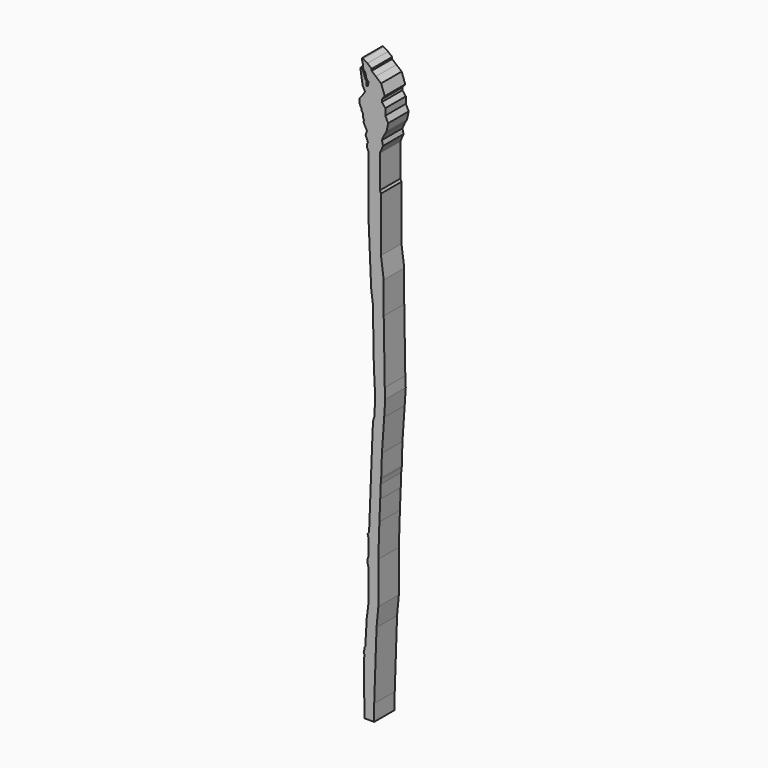
from build123d import *

# Parameters (mm, degrees)
F1_DEPTH = 6.35


with BuildPart() as f1:
    # F0 (on Front) → F1 (new body)
    with BuildSketch(Plane.XZ):
        Polygon((-58.676012, 70.675433), (-59.716608, 71.344383), (-59.975654, 71.427517), (-59.975654, 71.006581), (-59.940577, 70.445329), (-59.71257, 70.129625), (-59.835345, 69.778845), (-59.800263, 69.357902), (-59.589796, 68.972044), (-59.168857, 68.410791), (-58.940846, 67.340903), (-58.432214, 66.691957), (-58.572527, 65.727308), (-58.917451, 65.727308), (-58.917451, 66.639341), (-58.917451, 67.017012), (-59.133779, 66.937506), (-59.965832, 69.201457), (-60.221203, 69.392987), (-60.431674, 69.11236), (-59.870422, 65.464221), (-59.291631, 64.341716), (-59.48456, 63.920781), (-60.690984, 62.307183), (-60.690984, 61.419144), (-60.169544, 60.334548), (-60.169544, 60.000826), (-59.794106, 59.416812), (-59.794106, 58.603365), (-59.522957, 57.93592), (-59.68982, 57.685629), (-59.251808, 56.767892), (-58.792941, 55.912729), (-59.126664, 54.911561), (-58.521792, 53.430669), (-58.792941, 53.15952), (-58.792941, 52.325215), (-58.462251, 51.65777), (-58.462251, 51.219761), (-58.462251, 43.550201), (-58.462251, 38.294077), (-57.80109, 22.979558), (-57.80109, 22.313071), (-57.328186, 18.700593), (-57.130594, 6.927098), (-56.944776, 2.058604), (-56.758955, -1.026015), (-56.944776, -5.597197), (-57.304534, -6.819496), (-57.532188, -12.329374), (-58.267996, -31.223956), (-58.635905, -31.775814), (-58.415901, -32.695577), (-58.415901, -36.606416), (-58.708549, -37.449244), (-58.708549, -37.89407), (-58.462724, -38.924195), (-58.462724, -47.071535), (-58.845624, -50.201591), (-59.208509, -56.475982), (-59.372392, -56.65157), (-59.372392, -57.037868), (-59.606511, -57.892401), (-59.442628, -58.255285), (-59.52654, -60.387559), (-59.52654, -64.487077), (-59.382007, -72.18682), (-57.002816, -72.18682), (-57.002816, -71.950309), (-57.002816, -68.186022), (-56.425326, -51.439133), (-55.987526, -46.775039), (-55.987526, -36.422912), (-55.72189, -28.219488), (-55.514717, -23.205277), (-55.412289, -19.943317), (-55.267755, -18.708207), (-55.267755, -18.497974), (-55.096943, -13.058227), (-54.540541, -5.07562), (-54.275367, -1.08695), (-54.39074, 1.474799), (-54.650679, 16.963238), (-54.650679, 24.818346), (-55.331245, 29.917276), (-55.331245, 34.031644), (-55.331245, 43.396994), (-55.628557, 43.991618), (-55.628557, 50.941303), (-55.628557, 52.09339), (-54.810949, 53.951591), (-55.10826, 55.103678), (-54.513637, 56.441586), (-53.956173, 57.370689), (-53.547371, 59.30322), (-54.253489, 60.715456), (-54.253489, 61.012767), (-54.253489, 62.350675), (-55.10826, 63.391268), (-55.10826, 64.023063), (-54.402143, 64.914994), (-55.294082, 67.404993), (-56.594826, 68.482749), (-57.635419, 69.374688), (-57.635419, 69.820657), align=None)
        Polygon((-58.676012, 70.675433), (-59.716608, 71.344383), (-59.975654, 71.427517), (-59.975654, 71.006581), (-59.940577, 70.445329), (-59.71257, 70.129625), (-59.835345, 69.778845), (-59.800263, 69.357902), (-59.589796, 68.972044), (-59.168857, 68.410791), (-58.940846, 67.340903), (-58.432214, 66.691957), (-58.572527, 65.727308), (-58.917451, 65.727308), (-58.917451, 66.639341), (-58.917451, 67.017012), (-59.133779, 66.937506), (-59.965832, 69.201457), (-60.221203, 69.392987), (-60.431674, 69.11236), (-59.870422, 65.464221), (-59.291631, 64.341716), (-59.48456, 63.920781), (-60.690984, 62.307183), (-60.690984, 61.419144), (-60.169544, 60.334548), (-60.169544, 60.000826), (-59.794106, 59.416812), (-59.794106, 58.603365), (-59.522957, 57.93592), (-59.68982, 57.685629), (-59.251808, 56.767892), (-58.792941, 55.912729), (-59.126664, 54.911561), (-58.521792, 53.430669), (-58.792941, 53.15952), (-58.792941, 52.325215), (-58.462251, 51.65777), (-58.462251, 51.219761), (-58.462251, 43.550201), (-58.462251, 38.294077), (-57.80109, 22.979558), (-57.80109, 22.313071), (-57.328186, 18.700593), (-57.130594, 6.927098), (-56.944776, 2.058604), (-56.758955, -1.026015), (-56.944776, -5.597197), (-57.304534, -6.819496), (-57.532188, -12.329374), (-58.267996, -31.223956), (-58.635905, -31.775814), (-58.415901, -32.695577), (-58.415901, -36.606416), (-58.708549, -37.449244), (-58.708549, -37.89407), (-58.462724, -38.924195), (-58.462724, -47.071535), (-58.845624, -50.201591), (-59.208509, -56.475982), (-59.372392, -56.65157), (-59.372392, -57.037868), (-59.606511, -57.892401), (-59.442628, -58.255285), (-59.52654, -60.387559), (-59.52654, -64.487077), (-59.382007, -72.18682), (-57.002816, -72.18682), (-57.002816, -71.950309), (-57.002816, -68.186022), (-56.425326, -51.439133), (-55.987526, -46.775039), (-55.987526, -36.422912), (-55.72189, -28.219488), (-55.514717, -23.205277), (-55.412289, -19.943317), (-55.267755, -18.708207), (-55.267755, -18.497974), (-55.096943, -13.058227), (-54.540541, -5.07562), (-54.275367, -1.08695), (-54.39074, 1.474799), (-54.650679, 16.963238), (-54.650679, 24.818346), (-55.331245, 29.917276), (-55.331245, 34.031644), (-55.331245, 43.396994), (-55.628557, 43.991618), (-55.628557, 50.941303), (-55.628557, 52.09339), (-54.810949, 53.951591), (-55.10826, 55.103678), (-54.513637, 56.441586), (-53.956173, 57.370689), (-53.547371, 59.30322), (-54.253489, 60.715456), (-54.253489, 61.012767), (-54.253489, 62.350675), (-55.10826, 63.391268), (-55.10826, 64.023063), (-54.402143, 64.914994), (-55.294082, 67.404993), (-56.594826, 68.482749), (-57.635419, 69.374688), (-57.635419, 69.820657), align=None)
    extrude(amount=F1_DEPTH)


solid = f1.part
